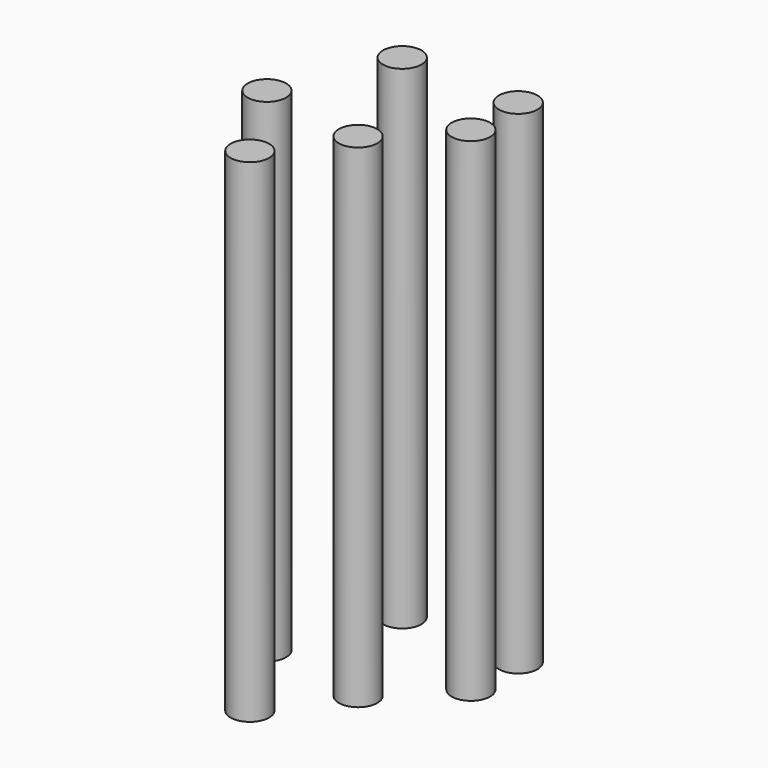
from build123d import *

# Parameters (mm, degrees)
F0_R     = 1.5875
F1_DEPTH = 40.64


with BuildPart() as f1:
    # F0 (on Top) → F1 (new body)
    with BuildSketch(Plane.XY):
        with Locations((-71.348557, 41.25601)):
            Circle(F0_R)
        with Locations((-61.591523, 41.018035)):
            Circle(F0_R)
        with Locations((-61.591523, 36.139516)):
            Circle(F0_R)
        with Locations((-75.275167, 32.212907)):
            Circle(F0_R)
        with Locations((-66.708016, 30.904036)):
            Circle(F0_R)
        with Locations((-70.872604, 24.954625)):
            Circle(F0_R)
    extrude(amount=F1_DEPTH)


solid = f1.part
